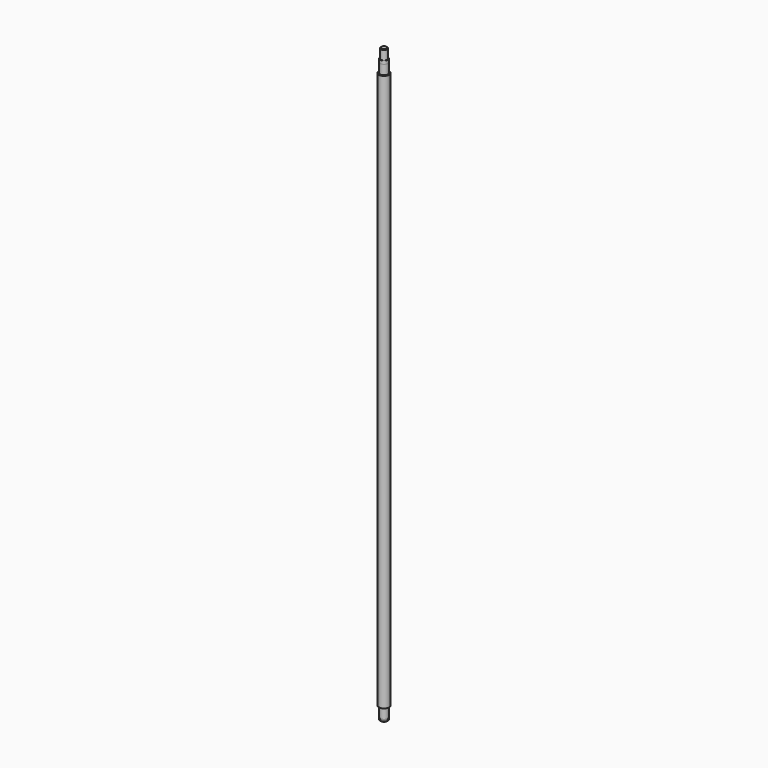
from build123d import *

# Parameters (mm, degrees)
F0_R      = 6
F1_DEPTH  = 3
F2_R      = 5.75
F3_DEPTH  = 1.15
F4_R      = 6
F4_R_2    = 5.75
F5_DEPTH  = 16
F6_R      = 8
F6_R_2    = 6
F7_DEPTH  = 872
F8_R      = 6
F9_DEPTH  = 15
F10_R     = 5.95
F11_DEPTH = 2
F12_R     = 5.95
F13_DEPTH = 3
F14_R     = 5
F15_DEPTH = 15
F16_SIZE  = 1


with BuildPart() as f1:
    # F0 (on Top) → F1 (new body)
    with BuildSketch(Plane.XY):
        Circle(F0_R)
    extrude(amount=F1_DEPTH)

    # F2 (on face) → F3 (join)
    with BuildSketch(Plane.XY.offset(3)):
        Circle(F2_R)
    extrude(amount=F3_DEPTH)

    # F4 (on face) → F5 (join)
    with BuildSketch(Plane.XY.offset(4.15)):
        Circle(F4_R)
        Circle(F4_R_2, mode=Mode.SUBTRACT)
        Circle(F4_R_2)
    extrude(amount=F5_DEPTH)

    # F6 (on face) → F7 (join)
    with BuildSketch(Plane.XY.offset(20.15)):
        Circle(F6_R)
        Circle(F6_R_2, mode=Mode.SUBTRACT)
        Circle(F6_R_2)
    extrude(amount=F7_DEPTH)

    # F8 (on face) → F9 (join)
    with BuildSketch(Plane.XY.offset(892.15)):
        Circle(F8_R)
    extrude(amount=F9_DEPTH)

    # F10 (on face) → F11 (join)
    with BuildSketch(Plane.XY.offset(907.15)):
        Circle(F10_R)
    extrude(amount=F11_DEPTH)

    # F12 (on face) → F13 (join)
    with BuildSketch(Plane.XY.offset(909.15)):
        Circle(F12_R)
    extrude(amount=F13_DEPTH)

    # F14 (on face) → F15 (join)
    with BuildSketch(Plane.XY.offset(912.15)):
        Circle(F14_R)
    extrude(amount=F15_DEPTH)

    # F16
    f16_edges = [f1.edges().sort_by_distance(p)[0] for p in [
        (-5, 0, 927.15),
        (-6, 0, 0),
    ]]
    chamfer(f16_edges, length=F16_SIZE)


solid = f1.part
